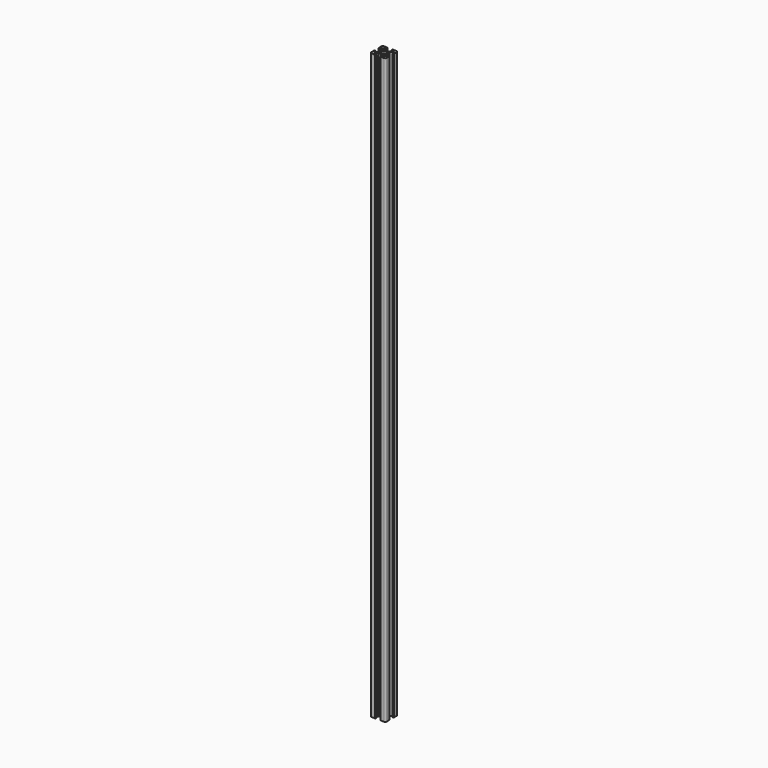
from build123d import *

# Parameters (mm, degrees)
F1_DEPTH = 750


with BuildPart() as f1:
    # F0 (on Top) → F1 (new body)
    with BuildSketch(Plane.XY):
        with BuildLine():
            ThreePointArc((-10, -7.991953), (-9.414214, -9.406167), (-8, -9.991953))
            Line((-8, -9.991953), (-3.5, -9.991953))
            Line((-3.5, -9.991953), (-3.5, -9.491953))
            Line((-3.5, -9.491953), (-3, -9.491953))
            Line((-3, -9.491953), (-3, -8.491953))
            Line((-3, -8.491953), (-6, -8.491953))
            Line((-6, -8.491953), (-6, -6.991953))
            Line((-6, -6.991953), (-3.5, -4.491953))
            Line((-3.5, -4.491953), (-0.5, -4.491953))
            Line((-0.5, -4.491953), (0, -3.991953))
            Line((0, -3.991953), (0.5, -4.491953))
            Line((0.5, -4.491953), (3.5, -4.491953))
            Line((3.5, -4.491953), (6, -6.991953))
            Line((6, -6.991953), (6, -8.491953))
            Line((6, -8.491953), (3, -8.491953))
            Line((3, -8.491953), (3, -9.491953))
            Line((3, -9.491953), (3.5, -9.491953))
            Line((3.5, -9.491953), (3.5, -9.991953))
            Line((3.5, -9.991953), (8, -9.991953))
            ThreePointArc((8, -9.991953), (9.414214, -9.406167), (10, -7.991953))
            Line((10, -7.991953), (10, -3.491953))
            Line((10, -3.491953), (9.5, -3.491953))
            Line((9.5, -3.491953), (9.5, -2.991953))
            Line((9.5, -2.991953), (8.5, -2.991953))
            Line((8.5, -2.991953), (8.5, -5.991953))
            Line((8.5, -5.991953), (7, -5.991953))
            Line((7, -5.991953), (4.5, -3.491953))
            Line((4.5, -3.491953), (4.5, -0.491953))
            Line((4.5, -0.491953), (4, 0.008047))
            Line((4, 0.008047), (4.5, 0.508047))
            Line((4.5, 0.508047), (4.5, 3.508047))
            Line((4.5, 3.508047), (7, 6.008047))
            Line((7, 6.008047), (8.5, 6.008047))
            Line((8.5, 6.008047), (8.5, 3.008047))
            Line((8.5, 3.008047), (9.5, 3.008047))
            Line((9.5, 3.008047), (9.5, 3.508047))
            Line((9.5, 3.508047), (10, 3.508047))
            Line((10, 3.508047), (10, 8.008047))
            ThreePointArc((10, 8.008047), (9.414214, 9.422261), (8, 10.008047))
            Line((8, 10.008047), (3.5, 10.008047))
            Line((3.5, 10.008047), (3.5, 9.508047))
            Line((3.5, 9.508047), (3, 9.508047))
            Line((3, 9.508047), (3, 8.508047))
            Line((3, 8.508047), (6, 8.508047))
            Line((6, 8.508047), (6, 7.008047))
            Line((6, 7.008047), (3.5, 4.508047))
            Line((3.5, 4.508047), (0.5, 4.508047))
            Line((0.5, 4.508047), (0, 4.008047))
            Line((0, 4.008047), (-0.5, 4.508047))
            Line((-0.5, 4.508047), (-3.5, 4.508047))
            Line((-3.5, 4.508047), (-6, 7.008047))
            Line((-6, 7.008047), (-6, 8.508047))
            Line((-6, 8.508047), (-3, 8.508047))
            Line((-3, 8.508047), (-3, 9.508047))
            Line((-3, 9.508047), (-3.5, 9.508047))
            Line((-3.5, 9.508047), (-3.5, 10.008047))
            Line((-3.5, 10.008047), (-8, 10.008047))
            ThreePointArc((-8, 10.008047), (-9.414214, 9.422261), (-10, 8.008047))
            Line((-10, 8.008047), (-10, 3.508047))
            Line((-10, 3.508047), (-9.5, 3.508047))
            Line((-9.5, 3.508047), (-9.5, 3.008047))
            Line((-9.5, 3.008047), (-8.5, 3.008047))
            Line((-8.5, 3.008047), (-8.5, 6.008047))
            Line((-8.5, 6.008047), (-7, 6.008047))
            Line((-7, 6.008047), (-4.5, 3.508047))
            Line((-4.5, 3.508047), (-4.5, 0.508047))
            Line((-4.5, 0.508047), (-4, 0.008047))
            Line((-4, 0.008047), (-4.5, -0.491953))
            Line((-4.5, -0.491953), (-4.5, -3.491953))
            Line((-4.5, -3.491953), (-7, -5.991953))
            Line((-7, -5.991953), (-8.5, -5.991953))
            Line((-8.5, -5.991953), (-8.5, -2.991953))
            Line((-8.5, -2.991953), (-9.5, -2.991953))
            Line((-9.5, -2.991953), (-9.5, -3.491953))
            Line((-9.5, -3.491953), (-10, -3.491953))
            Line((-10, -3.491953), (-10, -7.991953))
        make_face()
        with BuildLine():
            ThreePointArc((2.445203, 1.746144), (2.857937, 0.920294), (3, 0.008047))
            ThreePointArc((3, 0.008047), (2.857937, -0.9042), (2.445203, -1.73005))
            ThreePointArc((2.445203, -1.73005), (2.12132, -2.113273), (1.738097, -2.437156))
            ThreePointArc((1.738097, -2.437156), (0, -2.991953), (-1.738097, -2.437156))
            ThreePointArc((-1.738097, -2.437156), (-2.12132, -2.113273), (-2.445203, -1.73005))
            ThreePointArc((-2.445203, -1.73005), (-3, 0.008047), (-2.445203, 1.746144))
            ThreePointArc((-2.445203, 1.746144), (-2.12132, 2.129367), (-1.738097, 2.45325))
            ThreePointArc((-1.738097, 2.45325), (0, 3.008047), (1.738097, 2.45325))
            ThreePointArc((1.738097, 2.45325), (2.12132, 2.129367), (2.445203, 1.746144))
        make_face(mode=Mode.SUBTRACT)
    extrude(amount=F1_DEPTH)


solid = f1.part
